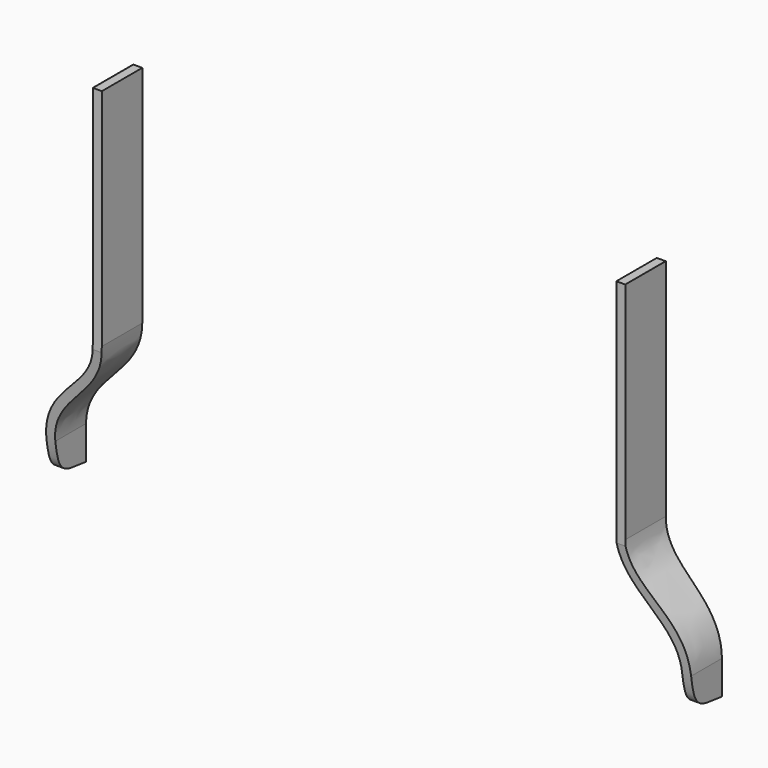
from build123d import *

# Parameters (mm, degrees)
F1_DEPTH = 50
F4_DEPTH = 35


with BuildPart() as f1:
    # F0 (on Front) → F1 (new body)
    with BuildSketch(Plane.XZ):
        with BuildLine():
            Line((2.101011, 12.496916), (2.101011, 32.496916))
            Line((2.101011, 32.496916), (1.301018, 32.500312))
            Line((1.301018, 32.500312), (1.301018, 12.500312))
            add(Edge.make_bspline(
                [(1.301018, 12.500312), (1.304618, 8.556827), (-3.623967, 7.807497), (-3.698982, 3.000312)],
                knots=[0, 0, 0, 0, 10.735455, 10.735455, 10.735455, 10.735455], degree=3))
            Line((-3.698982, 3.000312), (-3.698982, 0.000312))
            Line((-3.698982, 0.000312), (-2.898989, 0.000134))
            Line((-2.898989, 0.000134), (-2.898989, 3.000134))
            add(Edge.make_bspline(
                [(2.101011, 12.496916), (2.041966, 8.178498), (-2.877855, 7.112394), (-2.898989, 3.000134)],
                knots=[0, 0, 0, 0, 10.732608, 10.732608, 10.732608, 10.732608], degree=3))
        make_face()
    extrude(amount=F1_DEPTH)

    # F3 (on offset) → F4 (intersect, symmetric)
    with BuildSketch(Plane.YZ.offset(25)):
        with BuildLine():
            Line((0, 32.5), (-4.5, 32.5))
            Line((-4.5, 32.5), (-4.5, 12))
            add(Edge.make_bspline(
                [(-4.5, 12), (-2.81368, 0), (-4.160914, 0.42025), (0, 0)],
                knots=[0, 0, 0, 0, 12.816006, 12.816006, 12.816006, 12.816006], degree=3))
            Line((0, 0), (0, 32.5))
        make_face()
    extrude(amount=F4_DEPTH, both=True, mode=Mode.INTERSECT)


with BuildPart() as f5_1:
    # F5: instance of F1
    add(f1.part.mirror(Plane.YZ.offset(25)))


solid = Compound([f1.part, f5_1.part])
